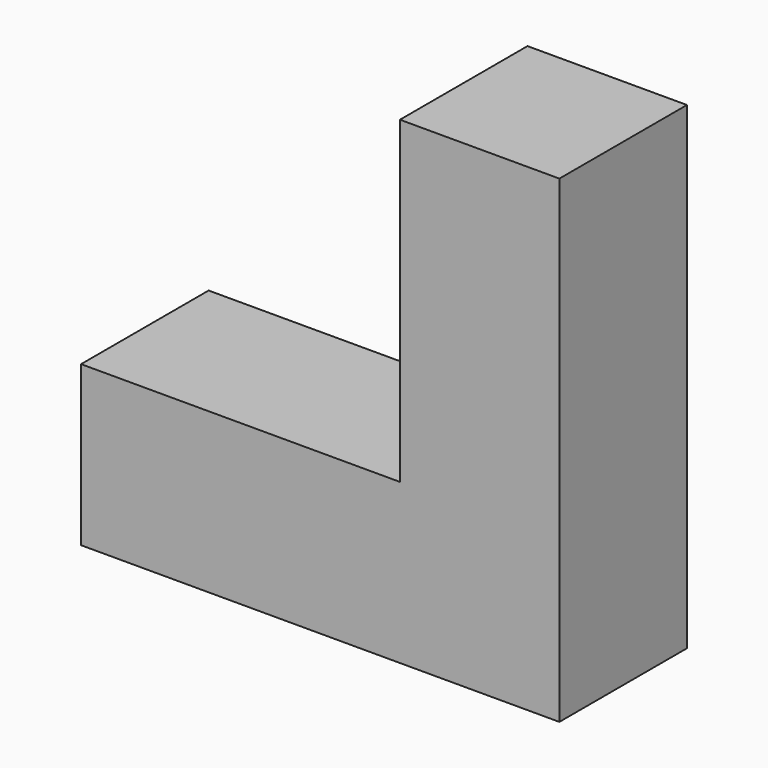
from build123d import *

# Parameters (mm, degrees)
F0_W     = 19.05
F0_H     = 38.1
F1_DEPTH = 9.525
F2_DEPTH = 9.525


with BuildPart() as f1:
    # F0 (on Front) → F1 (new body, symmetric)
    with BuildSketch(Plane.XZ):
        Polygon((-56.897658, -29.358179), (-56.897658, -48.408179), (0.252342, -48.408179), (0.252342, -29.358179), (-18.797658, -29.358179), align=None)
        with Locations((-9.272658, -10.308179)):
            Rectangle(F0_W, F0_H)
    extrude(amount=F1_DEPTH, both=True)

    # F0 (on Front) → F2 (join, symmetric)
    with BuildSketch(Plane.XZ):
        Polygon((-56.897658, -29.358179), (-56.897658, -48.408179), (0.252342, -48.408179), (0.252342, -29.358179), (-18.797658, -29.358179), align=None)
        with Locations((-9.272658, -10.308179)):
            Rectangle(F0_W, F0_H)
    extrude(amount=F2_DEPTH, both=True)


solid = f1.part
